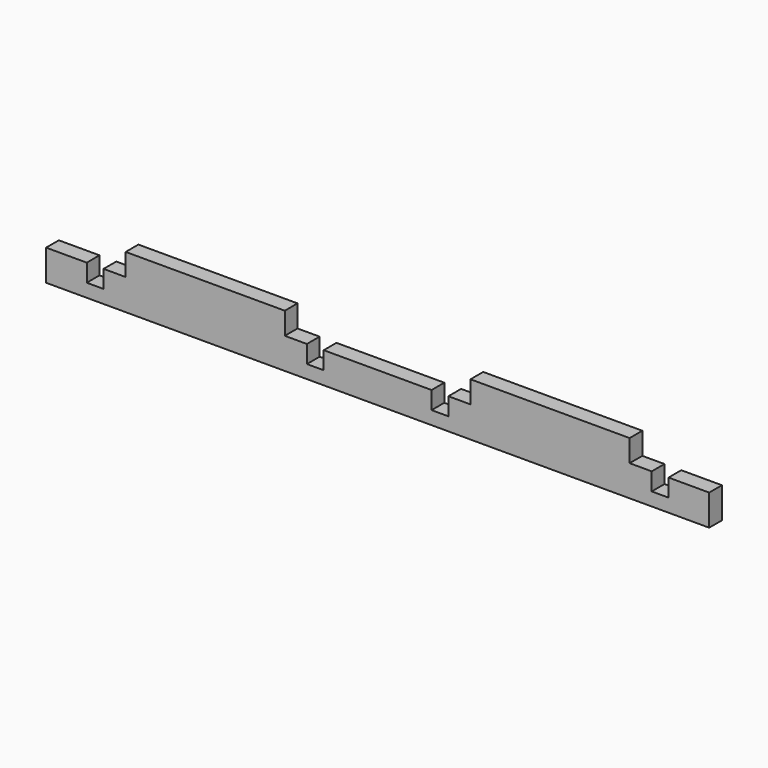
from build123d import *

# Parameters (mm, degrees)
F1_DEPTH = 18


with BuildPart() as f1:
    # F0 (on Front) → F1 (new body)
    with BuildSketch(Plane.XZ):
        Polygon((46, 35), (0, 35), (0, 0), (750, 0), (750, 35), (704, 35), (704, 15), (685, 15), (685, 35), (660, 35), (660, 60), (480, 60), (480, 35), (455, 35), (455, 15), (436, 15), (436, 35), (314, 35), (314, 15), (295, 15), (295, 35), (270, 35), (270, 60), (90, 60), (90, 35), (65, 35), (65, 15), (46, 15), align=None)
    extrude(amount=F1_DEPTH)


solid = f1.part
